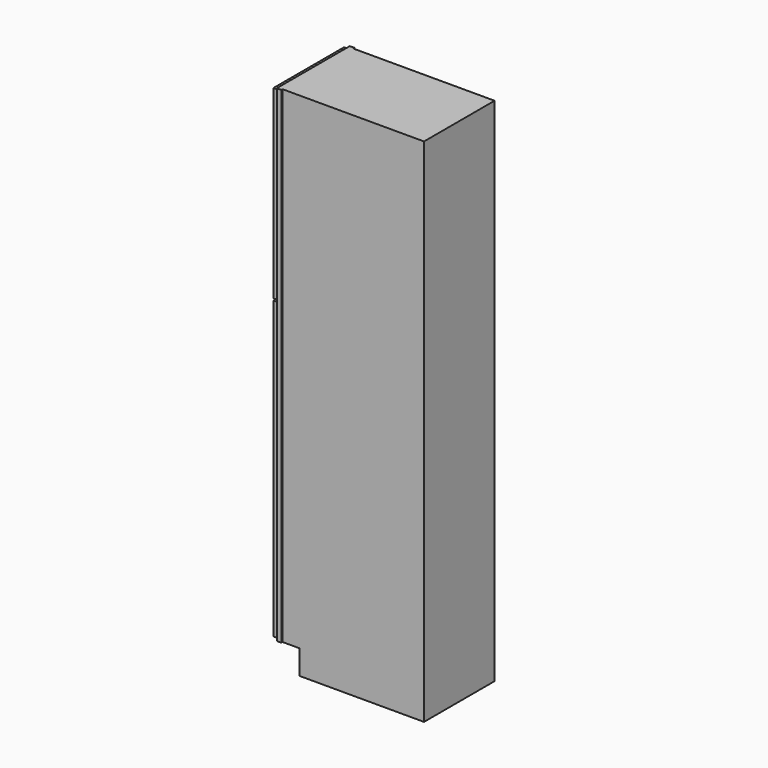
from build123d import *

# Parameters (mm, degrees)
F0_W      = 609.6
F0_H      = 2133.6
F1_DEPTH  = 381
F2_W      = 88.9
F2_H      = 101.6
F3_DEPTH  = 381.001
F4_W      = 298.45
F4_H      = 1949.45
F5_DEPTH  = 19.05
F6_W      = 590.55
F6_H      = 6.35
F7_DEPTH  = 2133.601
F8_W      = 587.375
F8_H      = 342.9
F9_DEPTH  = 1990.725
F10_W     = 298.45
F10_H     = 41.275
F11_DEPTH = 19.05
F12_W     = 368.3
F12_H     = 1235.0877
F12_W_2   = 254
F12_H_2   = 1120.7877
F12_H_3   = 773.0998
F12_H_4   = 658.7998
F13_DEPTH = 19.05
F14_W     = 6.35
F14_H     = 254
F15_DEPTH = 1120.7877
F16_W     = 6.35
F16_H     = 254
F17_DEPTH = 658.7998
F18_SIZE  = 3.175
F19_W     = 504.825
F19_H     = 342.9
F20_DEPTH = 101.6
F21_W     = 342.9
F21_H     = 12.7
F22_DEPTH = 587.375


with BuildPart() as f1:
    # F0 (on Front) → F1 (new body)
    with BuildSketch(Plane.XZ):
        Rectangle(F0_W, F0_H)
    extrude(amount=-F1_DEPTH)

    # F2 (on face) → F3 (cut, through all)
    with BuildSketch(Plane.XZ):
        with Locations((-260.35, -1016)):
            Rectangle(F2_W, F2_H)
    extrude(amount=-F3_DEPTH, mode=Mode.SUBTRACT)

    # F4 (on face) → F5 (cut)
    with BuildSketch(Plane(origin=(-304.8, 0, 0), x_dir=(0, -1, 0), z_dir=(-1, 0, 0))):
        with Locations((-190.5, 50.8)):
            Rectangle(F4_W, F4_H)
    extrude(amount=-F5_DEPTH, mode=Mode.SUBTRACT)

    # F6 (on face) → F7 (cut, through all)
    with BuildSketch(Plane.XY.offset(1066.8)):
        with Locations((9.525, 377.825)):
            Rectangle(F6_W, F6_H)
        with Locations((9.525, 3.175)):
            Rectangle(F6_W, F6_H)
    extrude(amount=-F7_DEPTH, mode=Mode.SUBTRACT)

    # F8 (on face) → F9 (cut, through all)
    with BuildSketch(Plane.XY.offset(1066.8)):
        with Locations((7.9375, 190.5)):
            Rectangle(F8_W, F8_H)
    extrude(amount=-F9_DEPTH, mode=Mode.SUBTRACT)

    # F10 (on face) → F11 (join, through all)
    with BuildSketch(Plane(origin=(-304.8, 0, 0), x_dir=(0, -1, 0), z_dir=(-1, 0, 0))):
        with Locations((-190.5, 280.9875)):
            Rectangle(F10_W, F10_H)
    extrude(amount=-F11_DEPTH)

    # F19 (on face) → F20 (cut)
    with BuildSketch(Plane(origin=(0, 0, -1066.8), x_dir=(1, 0, 0), z_dir=(0, 0, -1))):
        with Locations((49.2125, -190.5)):
            Rectangle(F19_W, F19_H)
    extrude(amount=-F20_DEPTH, mode=Mode.SUBTRACT)

    # F21 (on face) → F22 (join, through all)
    with BuildSketch(Plane.YZ.offset(-285.75)):
        with Locations((190.5, 1060.45)):
            Rectangle(F21_W, F21_H)
    extrude(amount=F22_DEPTH)


with BuildPart() as f13:
    # F12 (on face) → F13 (new body)
    with BuildSketch(Plane(origin=(-304.8, 0, 0), x_dir=(0, -1, 0), z_dir=(-1, 0, 0))):
        with Locations((-190.5, -339.71865)):
            Rectangle(F12_W, F12_H)
        with Locations((-190.5, -339.71865)):
            Rectangle(F12_W_2, F12_H_2, mode=Mode.SUBTRACT)
        with Locations((-190.5, 672.3126)):
            Rectangle(F12_W, F12_H_3)
        with Locations((-190.5, 672.3126)):
            Rectangle(F12_W_2, F12_H_4, mode=Mode.SUBTRACT)
    extrude(amount=F13_DEPTH)

    # F14 (on face) → F15 (join, through all)
    with BuildSketch(Plane.XY.offset(-900.1125)):
        with Locations((-312.7375, 190.5)):
            Rectangle(F14_W, F14_H)
    extrude(amount=F15_DEPTH)

    # F16 (on face) → F17 (join, through all)
    with BuildSketch(Plane.XY.offset(342.9127)):
        with Locations((-312.7375, 190.5)):
            Rectangle(F16_W, F16_H)
    extrude(amount=F17_DEPTH)

    # F18
    f18_edges = [f13.edges().sort_by_distance(p)[0] for p in [
        (-323.85, 317.5, -339.71865),
        (-323.85, 190.5, -900.1125),
        (-323.85, 63.5, -339.71865),
        (-323.85, 190.5, 220.6752),
        (-323.85, 190.5, 342.9127),
        (-323.85, 317.5, 672.3126),
        (-323.85, 63.5, 672.3126),
        (-323.85, 190.5, 1001.7125),
    ]]
    chamfer(f18_edges, length=F18_SIZE)


solid = Compound([f1.part, f13.part])
